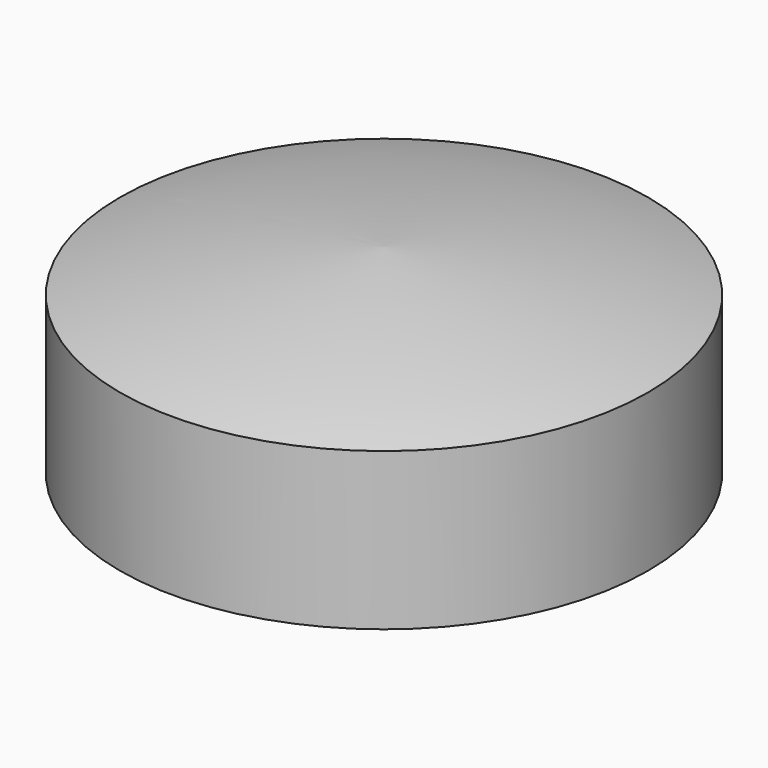
from build123d import *

# Parameters (mm, degrees)
F0_R     = 50.5
F1_DEPTH = 30
F2_R     = 50
F3_DEPTH = 25


with BuildPart() as f1:
    # F0 (on Top) → F1 (new body)
    with BuildSketch(Plane.XY):
        Circle(F0_R)
    extrude(amount=F1_DEPTH)

    # F2 (on face) → F3 (cut)
    with BuildSketch(Plane(origin=(0, 0, 0), x_dir=(1, 0, 0), z_dir=(0, 0, -1))):
        Circle(F2_R)
    extrude(amount=-F3_DEPTH, mode=Mode.SUBTRACT)


with BuildPart() as f5:
    # F4 (on Front) → F5 (revolve)
    with BuildSketch(Plane.XZ):
        with BuildLine():
            add(Edge.make_bspline(
                [(-50.424606, 30.05288), (-39.487511, 33.243593), (-19.800009, 37.100423), (0, 38.128462)],
                knots=[0, 0, 0, 0, 51.06717, 51.06717, 51.06717, 51.06717], degree=3))
            Line((-50.424606, 30.05288), (0, 30.05288))
            Line((0, 30.05288), (0, 38.128462))
        make_face()
    revolve(axis=Axis((0, 0, 34.090671), (0, 0, 1)))


solid = Compound([f1.part, f5.part])
